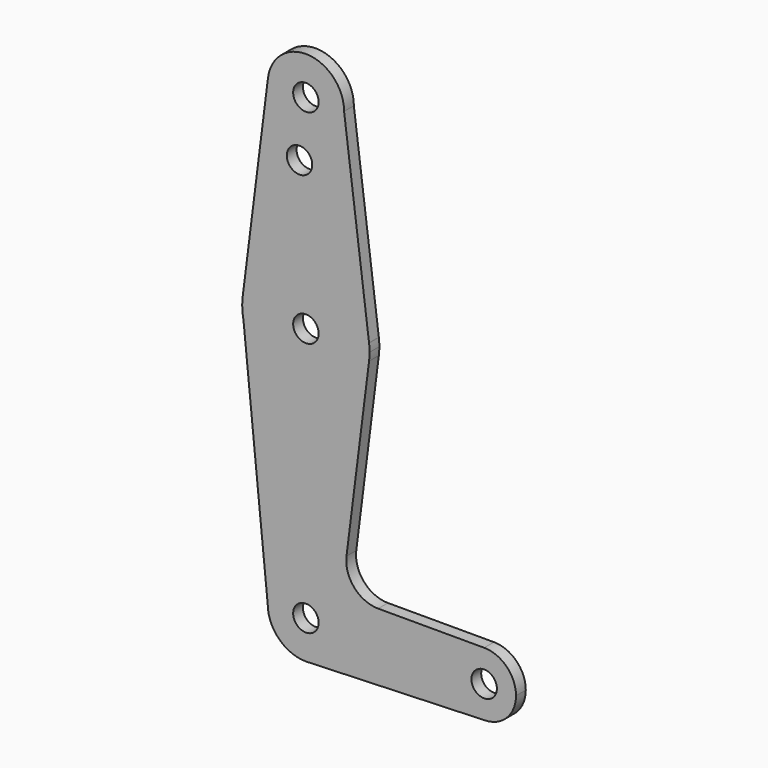
from build123d import *

# Parameters (mm, degrees)
F0_R     = 3.175
F1_DEPTH = 3.048


with BuildPart() as f1:
    # F0 (on Front) → F1 (new body)
    with BuildSketch(Plane.XZ):
        with BuildLine():
            ThreePointArc((-15.750488, 65.484375), (0, 79.375), (15.750488, 65.484375))
            Line((15.750488, 65.484375), (9.525, 114.3))
            ThreePointArc((9.525, 114.3), (-0.596483, 104.793695), (-9.450293, 115.490625))
            Line((-9.450293, 115.490625), (-15.750488, 65.484375))
        make_face()
        with Locations((-1.5875, 99.990685)):
            Circle(F0_R, mode=Mode.SUBTRACT)
        with BuildLine():
            ThreePointArc((15.750488, 61.515625), (15.843841, 62.505861), (15.875, 63.5))
            ThreePointArc((15.875, 63.5), (15.843841, 64.494139), (15.750488, 65.484375))
            ThreePointArc((15.750488, 65.484375), (0, 79.375), (-15.750488, 65.484375))
            ThreePointArc((-15.750488, 65.484375), (-15.843841, 64.494139), (-15.875, 63.5))
            Line((-15.875, 63.5), (-15.560644, 60.356436))
            ThreePointArc((-15.560644, 60.356436), (0.587316, 47.635868), (15.750488, 61.515625))
        make_face()
        with Locations((0, 63.5)):
            Circle(F0_R, mode=Mode.SUBTRACT)
        with BuildLine():
            Line((10.127114, 16.881475), (15.750488, 61.515625))
            ThreePointArc((15.750488, 61.515625), (0.587316, 47.635868), (-15.560644, 60.356436))
            Line((-15.560644, 60.356436), (-9.525, 0))
            ThreePointArc((-9.525, 0), (0, 9.525), (9.525, 0))
            ThreePointArc((9.525, 0), (6.970557, -6.491299), (0.677344, -9.500886))
            Line((0.677344, -9.500886), (44.732405, -7.932475))
            ThreePointArc((44.732405, -7.932475), (36.513756, -0.141225), (44.45, 7.9375))
            Line((44.45, 7.9375), (18.014958, 7.9375))
            ThreePointArc((18.014958, 7.9375), (12.052308, 10.629137), (10.127114, 16.881475))
        make_face()
        with BuildLine():
            ThreePointArc((-9.450293, 115.490625), (-0.596483, 104.793695), (9.525, 114.3))
            ThreePointArc((9.525, 114.3), (0.596483, 123.806305), (-9.450293, 115.490625))
        make_face()
        with Locations((0, 114.3)):
            Circle(F0_R, mode=Mode.SUBTRACT)
        with BuildLine():
            ThreePointArc((-15.875, 63.5), (-15.796215, 61.920378), (-15.560644, 60.356436))
            Line((-15.560644, 60.356436), (-15.875, 63.5))
        make_face()
        with BuildLine():
            ThreePointArc((9.525, 0), (0, 9.525), (-9.525, 0))
            ThreePointArc((-9.525, 0), (-6.735192, -6.735192), (0, -9.525))
            Line((0, -9.525), (0.677344, -9.500886))
            ThreePointArc((0.677344, -9.500886), (6.970557, -6.491299), (9.525, 0))
        make_face()
        Circle(F0_R, mode=Mode.SUBTRACT)
        with BuildLine():
            Line((0.677344, -9.500886), (0, -9.525))
            ThreePointArc((0, -9.525), (0.338886, -9.51897), (0.677344, -9.500886))
        make_face()
        with BuildLine():
            ThreePointArc((52.3875, 0), (50.06266, 5.61266), (44.45, 7.9375))
            ThreePointArc((44.45, 7.9375), (36.513756, -0.141225), (44.732405, -7.932475))
            ThreePointArc((44.732405, -7.932475), (50.161633, -5.51191), (52.3875, 0))
        make_face()
        with Locations((44.45, 0)):
            Circle(F0_R, mode=Mode.SUBTRACT)
    extrude(amount=F1_DEPTH)


solid = f1.part
